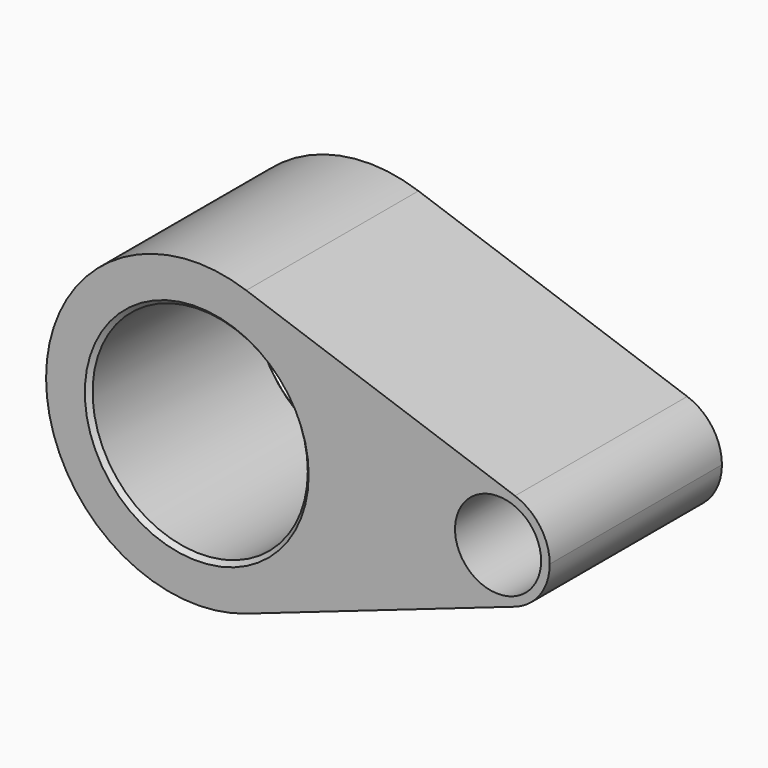
from build123d import *

# Parameters (mm, degrees)
F0_R     = 12.5
F0_R_2   = 5
F3_DEPTH = 25
F1_SIZE  = 0.5
F2_SIZE  = 1


with BuildPart() as f3:
    # F0 (on Front) → F3 (new body)
    with BuildSketch(Plane.XZ):
        with BuildLine():
            ThreePointArc((5.75, -16.528385), (14.263152, -10.13965), (17.5, 0))
            ThreePointArc((17.5, 0), (14.263152, 10.13965), (5.75, 16.528385))
            ThreePointArc((5.75, 16.528385), (-17.5, 0), (5.75, -16.528385))
        make_face()
        Circle(F0_R, mode=Mode.SUBTRACT)
        with BuildLine():
            ThreePointArc((5.75, 16.528385), (14.263152, 10.13965), (17.5, 0))
            ThreePointArc((17.5, 0), (14.263152, -10.13965), (5.75, -16.528385))
            Line((5.75, -16.528385), (36.971429, -5.666875))
            ThreePointArc((36.971429, -5.666875), (29, 0), (36.971429, 5.666875))
            Line((36.971429, 5.666875), (5.75, 16.528385))
        make_face()
        with BuildLine():
            ThreePointArc((41, 0), (39.890223, 3.476451), (36.971429, 5.666875))
            ThreePointArc((36.971429, 5.666875), (29, 0), (36.971429, -5.666875))
            ThreePointArc((36.971429, -5.666875), (39.890223, -3.476451), (41, 0))
        make_face()
        with Locations((35, 0)):
            Circle(F0_R_2, mode=Mode.SUBTRACT)
    extrude(amount=F3_DEPTH)

    # F1
    f1_edges = [f3.edges().sort_by_distance(p)[0] for p in [
        (-12.5, -25, 0),
    ]]
    chamfer(f1_edges, length=F1_SIZE)

    # F2
    f2_edges = [f3.edges().sort_by_distance(p)[0] for p in [
        (-12.5, 0, 0),
    ]]
    chamfer(f2_edges, length=F2_SIZE)


solid = f3.part
